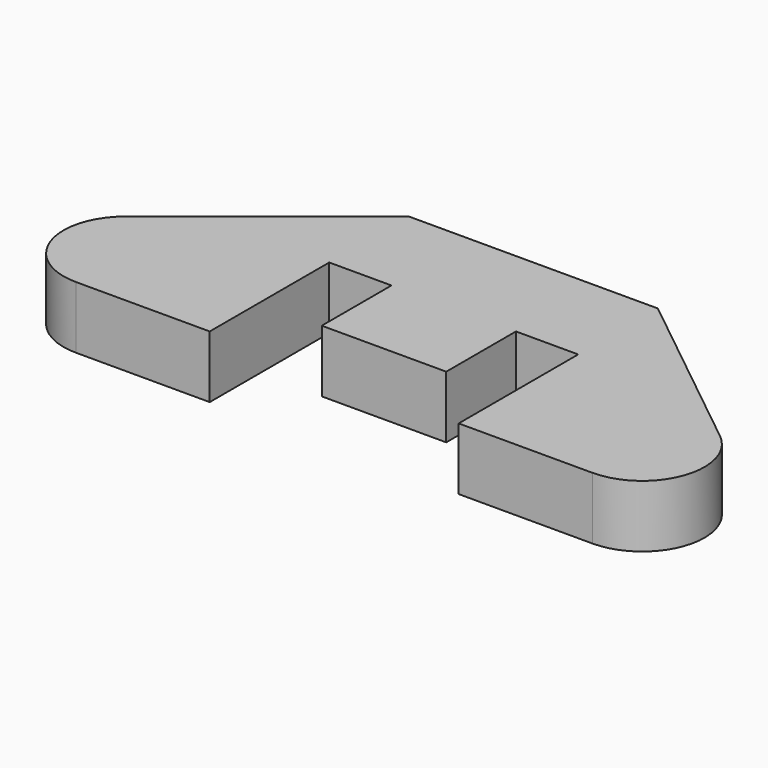
from build123d import *

# Parameters (mm, degrees)
F1_DEPTH = 6.35


with BuildPart() as f1:
    # F0 (on Top) → F1 (new body)
    with BuildSketch(Plane.XY):
        with BuildLine():
            ThreePointArc((-30.314354, 11.308517), (-32.33958, 4.248106), (-26.34754, 0))
            Line((-26.34754, 0), (-12.7, 0))
            Line((-12.7, 0), (-12.7, 15.24))
            Line((-12.7, 15.24), (-6.35, 15.24))
            Line((-6.35, 15.24), (-6.35, 6.35))
            Line((-6.35, 6.35), (6.35, 6.35))
            Line((6.35, 6.35), (6.35, 15.24))
            Line((6.35, 15.24), (12.7, 15.24))
            Line((12.7, 15.24), (12.7, 0))
            Line((12.7, 0), (26.34754, 0))
            ThreePointArc((26.34754, 0), (32.33958, 4.248106), (30.314354, 11.308517))
            Line((30.314354, 11.308517), (12.7, 25.4))
            Line((12.7, 25.4), (-12.7, 25.4))
            Line((-12.7, 25.4), (-30.314354, 11.308517))
        make_face()
    extrude(amount=F1_DEPTH)


solid = f1.part
